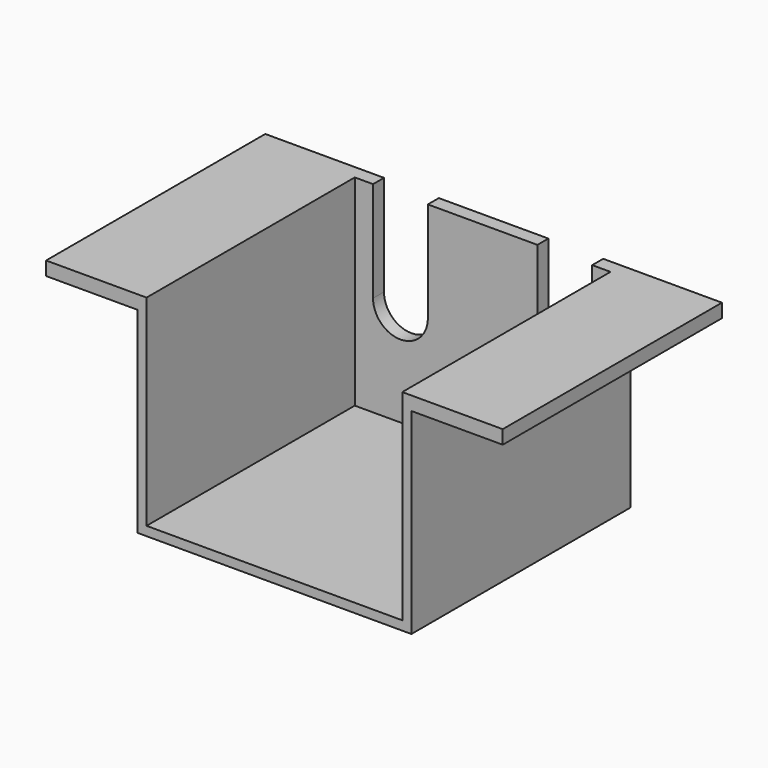
from build123d import *

# Parameters (mm, degrees)
F0_W      = 2
F0_H      = 60
F1_DEPTH  = 46
F2_DEPTH  = 2
F3_W      = 60
F3_H      = 3
F4_DEPTH  = 20
F5_W      = 60
F5_H      = 3
F6_DEPTH  = 20
F7_W      = 60
F7_H      = 46
F8_DEPTH  = 3
F10_DEPTH = 3


with BuildPart() as f1:
    # F0 (on Top) → F1 (new body)
    with BuildSketch(Plane.XY):
        with Locations((1, 30)):
            Rectangle(F0_W, F0_H)
    extrude(amount=F1_DEPTH)



with BuildPart() as f1b:
    # F0 (on Top) → F1, piece 2 (new body)
    with BuildSketch(Plane.XY):
        with Locations((59, 30)):
            Rectangle(F0_W, F0_H)
    extrude(amount=F1_DEPTH)


with BuildPart() as f1_1:
    add(f1.part)

    add(f1b.part)  # F2 merges F1b
    # F0 (on Top) → F2 (join)
    with BuildSketch(Plane.XY):
        with Locations((1, 30)):
            Rectangle(F0_W, F0_H)
        Polygon((2, 60), (2, 0), (4.7754659317, 0), (58, 0), (58, 60), align=None)
        with Locations((59, 30)):
            Rectangle(F0_W, F0_H)
    extrude(amount=F2_DEPTH)

    # F3 (on face) → F4 (join)
    with BuildSketch(Plane(origin=(0, 0, 0), x_dir=(0, -1, 0), z_dir=(-1, 0, 0))):
        with Locations((-30, 44.5)):
            Rectangle(F3_W, F3_H)
    extrude(amount=F4_DEPTH)

    # F5 (on face) → F6 (join)
    with BuildSketch(Plane.YZ.offset(60)):
        with Locations((30, 44.5)):
            Rectangle(F5_W, F5_H)
    extrude(amount=F6_DEPTH)

    # F7 (on face) → F8 (join)
    with BuildSketch(Plane(origin=(0, 60, 0), x_dir=(-1, 0, 0), z_dir=(0, 1, 0))):
        with Locations((-30, 23)):
            Rectangle(F7_W, F7_H)
    extrude(amount=-F8_DEPTH)

    # F9 (on face) → F10 (cut)
    with BuildSketch(Plane(origin=(0, 60, 0), x_dir=(-1, 0, 0), z_dir=(0, 1, 0))):
        with BuildLine():
            Line((-18.001411375, 46), (-18.001411375, 24.000384872))
            ThreePointArc((-18.001411375, 24.000384872), (-12.001411375, 18.000384872), (-6.001411375, 24.000384872))
            Line((-6.001411375, 24.000384872), (-6.001411375, 46))
            Line((-6.001411375, 46), (-18.001411375, 46))
        make_face()
        with BuildLine():
            Line((-42, 24), (-42, 46))
            Line((-42, 46), (-54, 46))
            Line((-54, 46), (-54, 24))
            ThreePointArc((-54, 24), (-48, 18), (-42, 24))
        make_face()
    extrude(amount=-F10_DEPTH, mode=Mode.SUBTRACT)


solid = f1_1.part
